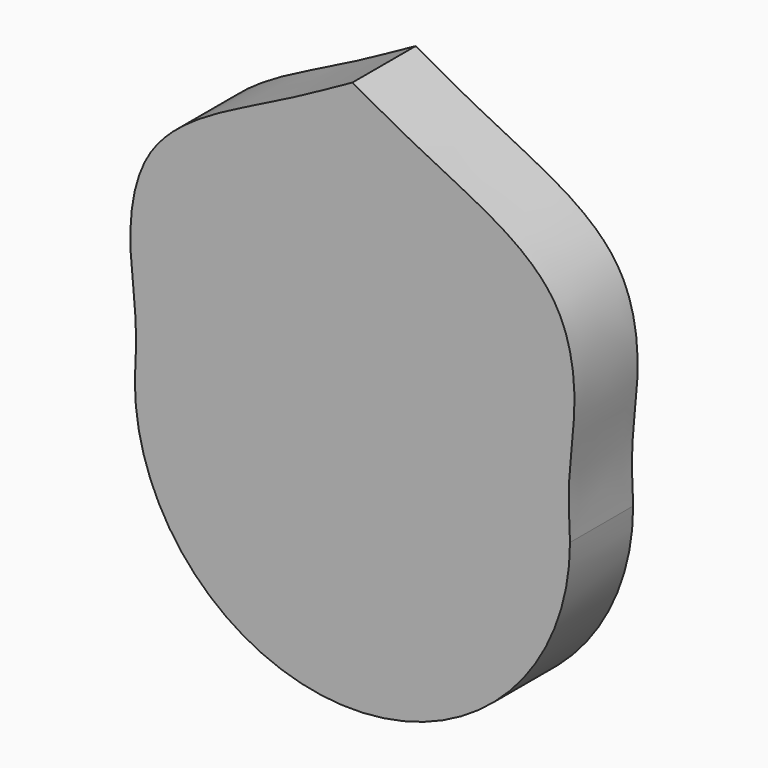
from build123d import *

# Parameters (mm, degrees)
F1_DEPTH = 25.4


with BuildPart() as f1:
    # F0 (on Front) → F1 (new body)
    with BuildSketch(Plane.XZ):
        with BuildLine():
            ThreePointArc((-70, 0), (0, -70), (70, 0))
            add(Edge.make_bspline(
                [(70, 0), (69.7045645025, 6.124060624), (69.0843609355, 18.9802145954), (72.8642857522, 41.1927682499), (68.2349119119, 67.2518940173), (47.7021229564, 83.3089918387), (24.9366339721, 93.6857478498), (8.4852321262, 102.7994002207), (0, 107.5)],
                knots=[0, 0, 0, 0, 0.147067746, 0.3087372419, 0.4788249422, 0.6475021984, 0.8181902248, 1, 1, 1, 1], degree=3))
            add(Edge.make_bspline(
                [(-70, 0), (-69.7045645025, 6.124060624), (-69.0843609355, 18.9802145954), (-72.8642857522, 41.1927682499), (-68.2349119119, 67.2518940173), (-47.7021229564, 83.3089918387), (-24.9366339721, 93.6857478498), (-8.4852321262, 102.7994002207), (0, 107.5)],
                knots=[0, 0, 0, 0, 0.147067746, 0.3087372419, 0.4788249422, 0.6475021984, 0.8181902248, 1, 1, 1, 1], degree=3))
        make_face()
    extrude(amount=F1_DEPTH)


solid = f1.part
